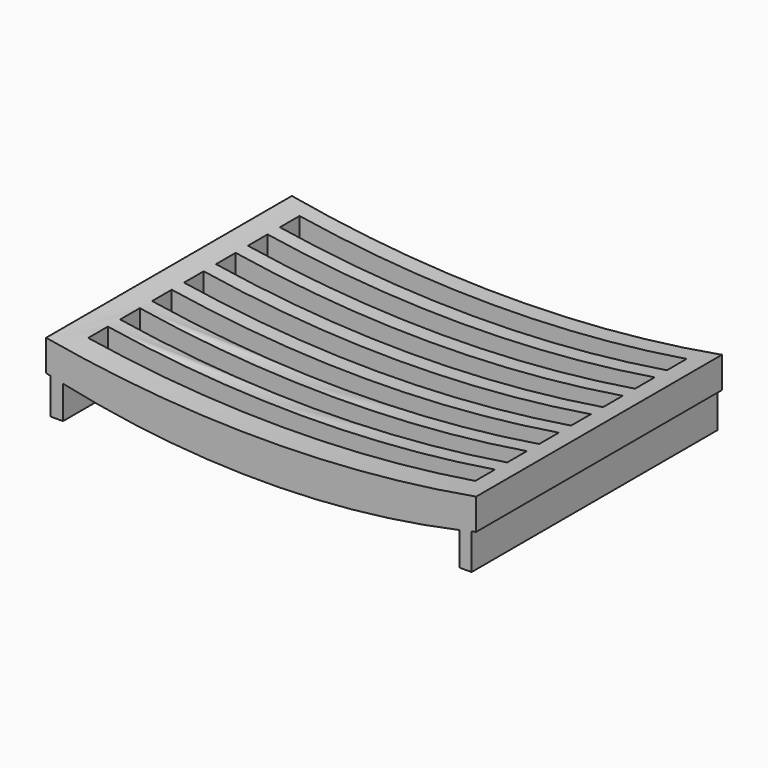
from build123d import *

# Parameters (mm, degrees)
F1_DEPTH = 63.5
F2_W     = 80.01
F2_H     = 5.08
F3_DEPTH = 25.4
F5_W     = 2.54
F5_H     = 58.1769375229
F5_H_2   = 5.3230624771
F5_H_3   = 63.5


with BuildPart() as f1:
    # F0 (on Front) → F1 (new body)
    with BuildSketch(Plane.XZ):
        with BuildLine():
            Line((44.45, 0), (44.45, 6.4237275764))
            ThreePointArc((44.45, 6.4237275764), (0, 2.4996446645), (-44.45, 6.4237275764))
            Line((-44.45, 6.4237275764), (-44.45, 0))
            ThreePointArc((-44.45, 0), (0, -5.1746531634), (44.45, 0))
        make_face()
    extrude(amount=F1_DEPTH)

    # F2 (on Top) → F3 (cut, symmetric)
    with BuildSketch(Plane.XY):
        with Locations((0, -6.1069375229)):
            Rectangle(F2_W, F2_H)
        with Locations((0, -14.3619375229)):
            Rectangle(F2_W, F2_H)
        with Locations((0, -22.6169375229)):
            Rectangle(F2_W, F2_H)
        with Locations((0, -30.8719375229)):
            Rectangle(F2_W, F2_H)
        with Locations((0, -39.1269375229)):
            Rectangle(F2_W, F2_H)
        with Locations((0, -47.3819375229)):
            Rectangle(F2_W, F2_H)
        with Locations((0, -55.6369375229)):
            Rectangle(F2_W, F2_H)
    extrude(amount=F3_DEPTH, both=True, mode=Mode.SUBTRACT)

    # F5 (on offset) → F6 (join, up to the next surface of F1)
    with BuildSketch(Plane.XY.offset(-7.62)):
        with Locations((-42.2275, -29.0884687615)):
            Rectangle(F5_W, F5_H)
        with Locations((-42.2275, -60.8384687615)):
            Rectangle(F5_W, F5_H_2)
        with Locations((42.2275, -31.75)):
            Rectangle(F5_W, F5_H_3)
    extrude(until=Until.NEXT)


solid = f1.part
